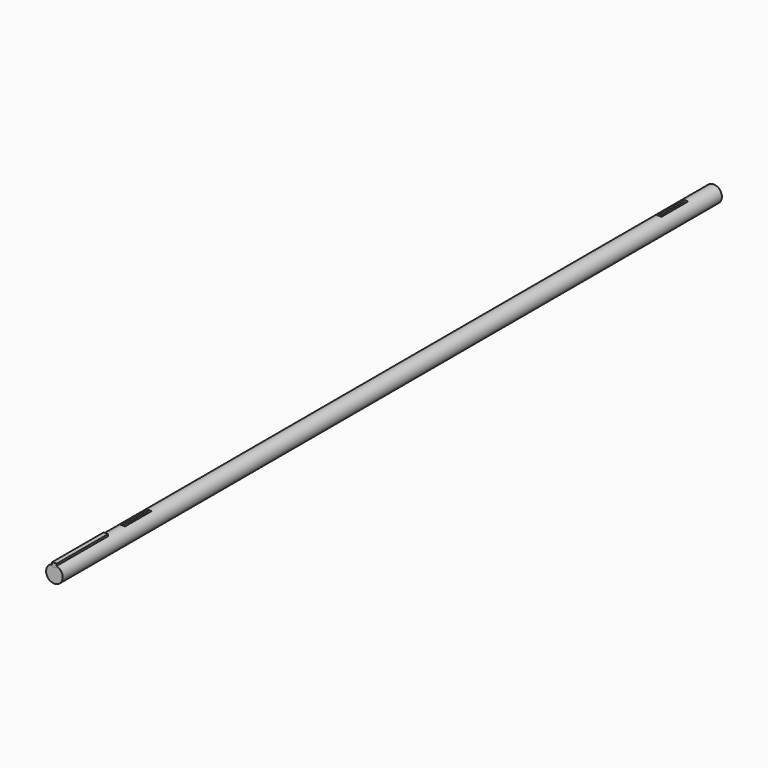
from build123d import *

# Parameters (mm, degrees)
F0_R     = 15
F1_DEPTH = 743.5
F3_W     = 8
F3_H     = 60
F3_H_2   = 116
F4_DEPTH = 4
F5_DEPTH = 7


with BuildPart() as f1:
    # F0 (on Front) → F1 (new body, symmetric)
    with BuildSketch(Plane.XZ):
        Circle(F0_R)
    extrude(amount=F1_DEPTH, both=True)

    # F3 (on offset) → F4 (cut)
    with BuildSketch(Plane.XY.offset(15)):
        with Locations((0, 650.5)):
            Rectangle(F3_W, F3_H)
        with Locations((0, -559.5)):
            Rectangle(F3_W, F3_H)
        with Locations((0, -685.5)):
            Rectangle(F3_W, F3_H_2)
    extrude(amount=-F4_DEPTH, mode=Mode.SUBTRACT)


with BuildPart() as f5:
    # F5 (new): a face of the model
    f5_faces = [f1.part.faces().sort_by_distance(p)[0] for p in [
        (0, -685.5, 11),
    ]]
    extrude(f5_faces, amount=F5_DEPTH)


solid = Compound([f1.part, f5.part])
